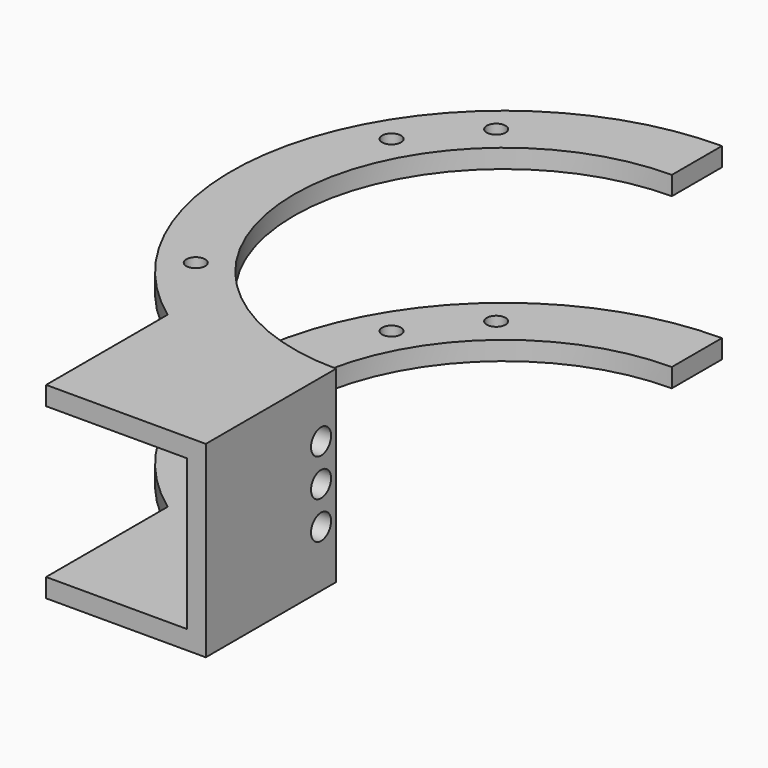
from build123d import *

# Parameters (mm, degrees)
PAD_DEPTH       = 3
SKETCH001_W     = 3
SKETCH001_H     = 26
PAD001_DEPTH    = 24
SKETCH002_R     = 2
POCKET_DEPTH    = 3
PAD002_DEPTH    = 3
SKETCH004_R     = 1.5
POCKET001_DEPTH = 30.001


with BuildPart() as part:
    # Sketch → Pad (new body)
    with BuildSketch(Plane.XY):
        with BuildLine():
            ThreePointArc((33.5, 33.5), (0, 0), (33.5, -33.5))
            Line((33.5, -33.5), (33.5, -59.5))
            Line((33.5, -59.5), (8, -59.5))
            Line((8, -59.5), (8, -35.24202))
            ThreePointArc((33.5, 43.5), (-7.884042, 13.401905), (8, -35.24202))
            Line((33.5, 33.5), (33.5, 43.5))
        make_face()
    extrude(amount=PAD_DEPTH)

    # Sketch001 → Pad001 (new body)
    with BuildSketch(Plane.XY.offset(3)):
        with Locations((32, -46.5)):
            Rectangle(SKETCH001_W, SKETCH001_H)
    extrude(amount=PAD001_DEPTH)

    # Sketch002 → Pocket (cut)
    with BuildSketch(Plane.YZ.offset(33.5)):
        with Locations((-36.5, 21)):
            Circle(SKETCH002_R)
        with Locations((-36.5, 15)):
            Circle(SKETCH002_R)
        with Locations((-36.5, 9)):
            Circle(SKETCH002_R)
    extrude(amount=-POCKET_DEPTH, mode=Mode.SUBTRACT)

    # Sketch003 → Pad002 (new body)
    with BuildSketch(Plane.XY.offset(27)):
        with BuildLine():
            Line((33.5, 43.5), (33.5, 33.5))
            ThreePointArc((33.5, 33.5), (0, 0), (33.5, -33.5))
            Line((33.5, -33.5), (33.5, -59.5))
            Line((8, -59.5), (33.5, -59.5))
            Line((8, -35.24202), (8, -59.5))
            ThreePointArc((33.5, 43.5), (-7.884042, 13.401905), (8, -35.24202))
        make_face()
    extrude(amount=PAD002_DEPTH)

    # Sketch004 → Pocket001 (cut, through all)
    with BuildSketch(Plane(origin=(0, 0, 0), x_dir=(1, 0, 0), z_dir=(0, 0, -1))):
        with Locations((1.962646, 22.082693)):
            Circle(SKETCH004_R)
        with Locations((8.68646, -29.464001)):
            Circle(SKETCH004_R)
        with Locations((0.158022, -19.25)):
            Circle(SKETCH004_R)
    extrude(amount=-POCKET001_DEPTH, mode=Mode.SUBTRACT)


solid = part.part
